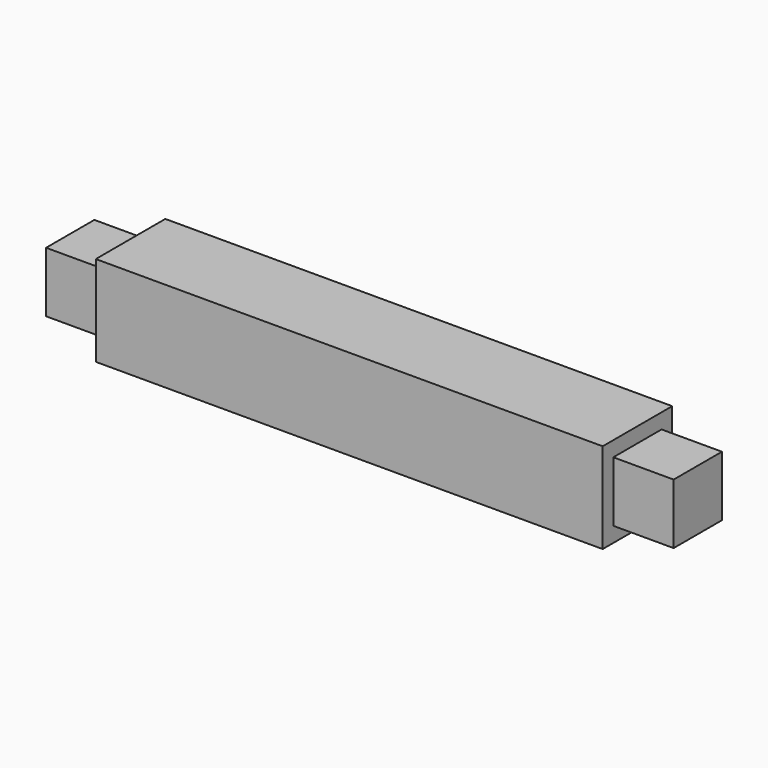
from build123d import *

# Parameters (mm, degrees)
F0_W     = 420
F0_H     = 75
F1_DEPTH = 72
F2_W     = 50
F2_H     = 50
F3_DEPTH = 50
F4_W     = 50
F4_H     = 50
F5_DEPTH = 50


with BuildPart() as f1:
    # F0 (on Front) → F1 (new body)
    with BuildSketch(Plane.XZ):
        Rectangle(F0_W, F0_H)
    extrude(amount=F1_DEPTH)

    # F2 (on face) → F3 (join)
    with BuildSketch(Plane.YZ.offset(210)):
        with Locations((-36, 0)):
            Rectangle(F2_W, F2_H)
    extrude(amount=F3_DEPTH)

    # F4 (on face) → F5 (join)
    with BuildSketch(Plane(origin=(-210, 0, 0), x_dir=(0, -1, 0), z_dir=(-1, 0, 0))):
        with Locations((36, 0)):
            Rectangle(F4_W, F4_H)
    extrude(amount=F5_DEPTH)


solid = f1.part
